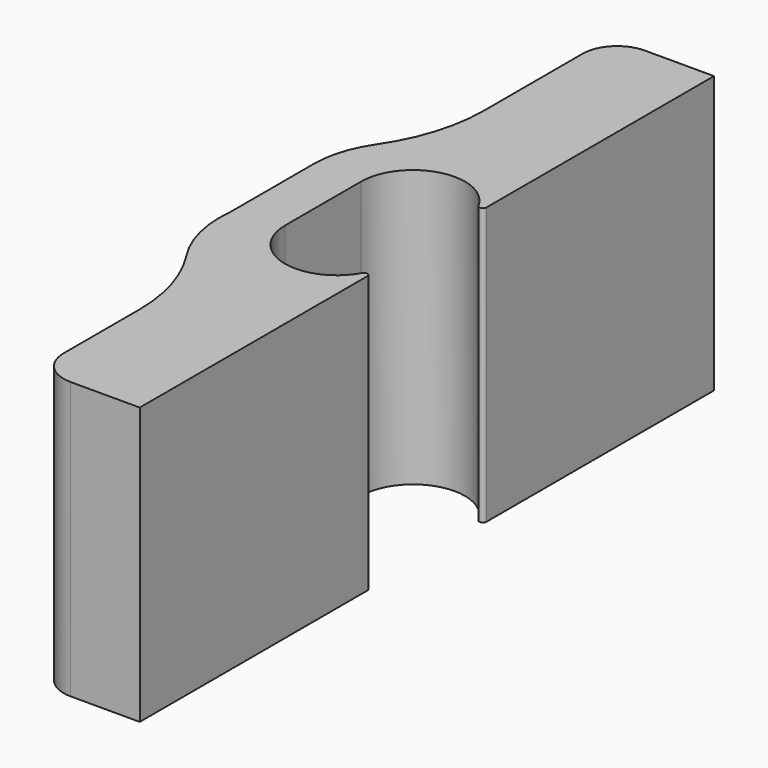
from build123d import *

# Parameters (mm, degrees)
F1_DEPTH = 8
F2_R     = 0.1
F3_R     = 1
F4_R     = 5


with BuildPart() as f1:
    # F0 (on Top) → F1 (new body)
    with BuildSketch(Plane.XY):
        with BuildLine():
            Line((0, -2.75), (0, 0))
            ThreePointArc((0, 0), (1.5, 1.5), (3, 0))
            Line((3, 0), (3, 9))
            Line((3, 9), (0, 9))
            Line((0, 9), (0, 2.4526771088))
            ThreePointArc((0, 2.4526771088), (-1.007800331, 1.4059027349), (-1.375, 0))
            Line((-1.375, 0), (-1.375, -3))
            ThreePointArc((-1.375, -3), (-1.1039614046, -4.7622217371), (0, -6.1622776602))
            Line((0, -6.1622776602), (0, -11.75))
            Line((0, -11.75), (3, -11.75))
            Line((3, -11.75), (3, -2.75))
            ThreePointArc((3, -2.75), (1.5, -4.25), (0, -2.75))
        make_face()
    extrude(amount=F1_DEPTH)

    # F2 (call 1 of 2: OpenCascade refuses the feature's edges together)
    f2_edges = [f1.edges().sort_by_distance(p)[0] for p in [
        (3, 0, 4),
    ]]
    fillet(f2_edges, radius=F2_R)

    # F2#2 (call 2 of 2)
    f2_2_edges = [f1.edges().sort_by_distance(p)[0] for p in [
        (3, -2.75, 4),
    ]]
    fillet(f2_2_edges, radius=F2_R)

    # F3
    f3_edges = [f1.edges().sort_by_distance(p)[0] for p in [
        (0, 9, 4),
        (0, -11.75, 4),
    ]]
    fillet(f3_edges, radius=F3_R)

    # F4
    f4_edges = [f1.edges().sort_by_distance(p)[0] for p in [
        (0, 2.452677, 4),
        (0, -6.162278, 4),
    ]]
    fillet(f4_edges, radius=F4_R)


solid = f1.part
